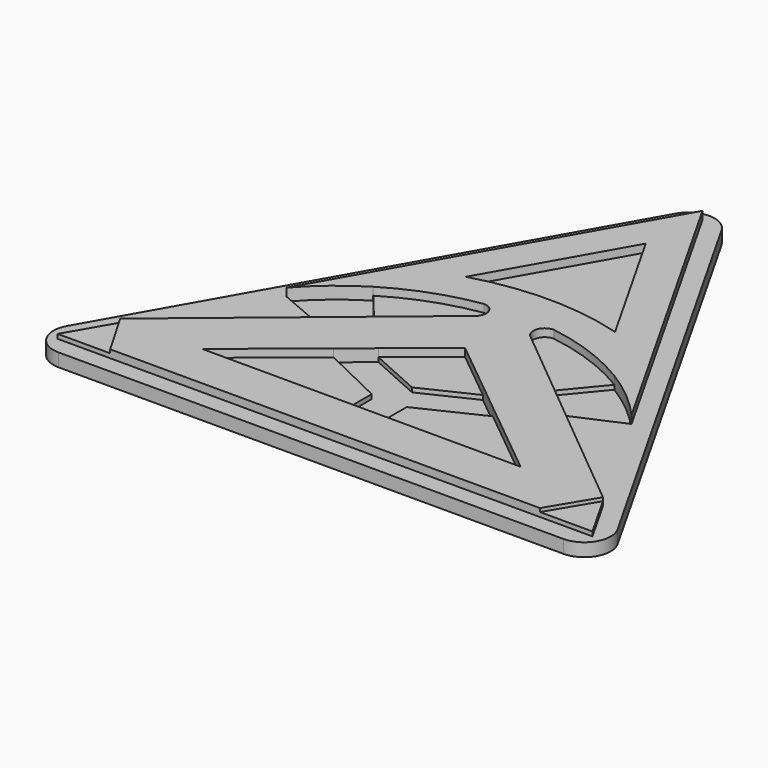
from build123d import *

# Parameters (mm, degrees)
F1_DEPTH = 0.75
F2_DEPTH = 1.2
F3_DEPTH = 0.5
F4_R     = 1.5
F5_DEPTH = 1


with BuildPart() as f1:
    # F0 (on Top) → F1 (new body)
    with BuildSketch(Plane.XY):
        Polygon((17, 0), (0, 30), (-17, 0), align=None)
        Polygon((-9.8602514396, 10.5712104419), (0, 27.9716541589), (9.8602514396, 10.5712104419), (6.91278449, 9.2867956266), (13.8255689799, 3.5735912532), (15.2839373567, 1), (12.2839373567, 1), (-12.2839373567, 1), (-15.2839373567, 1), (-13.7839373567, 3.5980762114), (-6.8919686783, 9.2990381057), align=None, mode=Mode.SUBTRACT)
    extrude(amount=F1_DEPTH)



with BuildPart() as f1b:
    # F0 (on Top) → F1, piece 2 (new body)
    with BuildSketch(Plane.XY):
        with BuildLine():
            Line((4.2646633267, 16.3890860177), (0, 23.9149624766))
            Line((0, 23.9149624766), (-4.2646633267, 16.3890860177))
            ThreePointArc((-4.2646633267, 16.3890860177), (0, 17), (4.2646633267, 16.3890860177))
        make_face()
    extrude(amount=F1_DEPTH)


with BuildPart() as f1c:
    # F0 (on Top) → F1, piece 3 (new body)
    with BuildSketch(Plane.XY):
        with BuildLine():
            ThreePointArc((-2, 14.8474978515), (-4.53528859, 14.1958216086), (-6.8919686783, 13.0563352674))
            Line((-6.8919686783, 13.0563352674), (-5.0466307357, 10.8254816785))
            Line((-5.0466307357, 10.8254816785), (-1.5410891317, 13.7252277505))
            ThreePointArc((-1.5410891317, 13.7252277505), (-1.3920172008, 14.4411475731), (-2, 14.8474978515))
        make_face()
    extrude(amount=F1_DEPTH)


with BuildPart() as f1d:
    # F0 (on Top) → F1, piece 4 (new body)
    with BuildSketch(Plane.XY):
        with BuildLine():
            Line((5.049368775, 10.8268515661), (6.8919686783, 13.0563352674))
            ThreePointArc((6.8919686783, 13.0563352674), (4.53528859, 14.1958216086), (2, 14.8474978515))
            ThreePointArc((2, 14.8474978515), (1.3921371588, 14.4414464477), (1.5416340213, 13.7258867616))
            Line((1.5416340213, 13.7258867616), (5.049368775, 10.8268515661))
        make_face()
    extrude(amount=F1_DEPTH)


with BuildPart() as f1e:
    # F0 (on Top) → F1, piece 5 (new body)
    with BuildSketch(Plane.XY):
        Polygon((0, 11), (-2.997756418, 8.5596127439), (0, 7.2146742605), (2.927840303, 8.6165294417), align=None)
    extrude(amount=F1_DEPTH)


with BuildPart() as f1f:
    # F0 (on Top) → F1, piece 6 (new body)
    with BuildSketch(Plane.XY):
        Polygon((-4.5487910115, 7.2969601038), (-9.097582023, 3.5939202075), (-1, 3.5867390231), (-1, 5.5867390231), align=None)
    extrude(amount=F1_DEPTH)


with BuildPart() as f1g:
    # F0 (on Top) → F1, piece 7 (new body)
    with BuildSketch(Plane.XY):
        Polygon((1, 5.5849653616), (1, 3.5849653616), (9.117425038, 3.5777665798), (4.558712519, 7.2888832899), align=None)
    extrude(amount=F1_DEPTH)


with BuildPart() as f1_1:
    add(f1.part)

    add(f1b.part)  # F2 merges F1b

    add(f1c.part)  # F2 merges F1c

    add(f1d.part)  # F2 merges F1d

    add(f1e.part)  # F2 merges F1e

    add(f1f.part)  # F2 merges F1f

    add(f1g.part)  # F2 merges F1g
    # F0 (on Top) → F2 (join)
    with BuildSketch(Plane.XY):
        with BuildLine():
            Line((9.8602514396, 10.5712104419), (0, 27.9716541589))
            Line((0, 27.9716541589), (-9.8602514396, 10.5712104419))
            ThreePointArc((-9.8602514396, 10.5712104419), (-8.467773088, 11.9232570085), (-6.8919686783, 13.0563352674))
            ThreePointArc((-6.8919686783, 13.0563352674), (-4.53528859, 14.1958216086), (-2, 14.8474978515))
            ThreePointArc((-2, 14.8474978515), (-1.3920172008, 14.4411475731), (-1.5410891317, 13.7252277505))
            Line((-1.5410891317, 13.7252277505), (-5.0466307357, 10.8254816785))
            Line((-5.0466307357, 10.8254816785), (-6.8919686783, 9.2990381057))
            Line((-6.8919686783, 9.2990381057), (-13.7839373567, 3.5980762114))
            Line((-13.7839373567, 3.5980762114), (-12.2839373567, 1))
            Line((-12.2839373567, 1), (12.2839373567, 1))
            Line((12.2839373567, 1), (13.8255689799, 3.5735912532))
            Line((13.8255689799, 3.5735912532), (6.91278449, 9.2867956266))
            Line((6.91278449, 9.2867956266), (5.049368775, 10.8268515661))
            Line((5.049368775, 10.8268515661), (1.5416340213, 13.7258867616))
            ThreePointArc((1.5416340213, 13.7258867616), (1.3921371588, 14.4414464477), (2, 14.8474978515))
            ThreePointArc((2, 14.8474978515), (4.53528859, 14.1958216086), (6.8919686783, 13.0563352674))
            ThreePointArc((6.8919686783, 13.0563352674), (8.467773088, 11.9232570085), (9.8602514396, 10.5712104419))
        make_face()
        Polygon((-1, 3.5867390231), (-9.097582023, 3.5939202075), (-4.5487910115, 7.2969601038), (-2.997756418, 8.5596127439), (0, 11), (2.927840303, 8.6165294417), (4.558712519, 7.2888832899), (9.117425038, 3.5777665798), (1, 3.5849653616), align=None, mode=Mode.SUBTRACT)
        with BuildLine():
            Line((-4.2646633267, 16.3890860177), (0, 23.9149624766))
            Line((0, 23.9149624766), (4.2646633267, 16.3890860177))
            ThreePointArc((4.2646633267, 16.3890860177), (0, 17), (-4.2646633267, 16.3890860177))
        make_face(mode=Mode.SUBTRACT)
    extrude(amount=F2_DEPTH)

    # F0 (on Top) → F3 (join)
    with BuildSketch(Plane.XY):
        with BuildLine():
            ThreePointArc((-6.8919686783, 13.0563352674), (-8.467773088, 11.9232570085), (-9.8602514396, 10.5712104419))
            Line((-9.8602514396, 10.5712104419), (-6.8919686783, 9.2990381057))
            Line((-6.8919686783, 9.2990381057), (-5.0466307357, 10.8254816785))
            Line((-5.0466307357, 10.8254816785), (-6.8919686783, 13.0563352674))
        make_face()
        Polygon((-1, 5.5867390231), (-1, 3.5867390231), (1, 3.5849653616), (1, 5.5849653616), (4.558712519, 7.2888832899), (2.927840303, 8.6165294417), (0, 7.2146742605), (-2.997756418, 8.5596127439), (-4.5487910115, 7.2969601038), align=None)
        with BuildLine():
            Line((6.91278449, 9.2867956266), (9.8602514396, 10.5712104419))
            ThreePointArc((9.8602514396, 10.5712104419), (8.467773088, 11.9232570085), (6.8919686783, 13.0563352674))
            Line((6.8919686783, 13.0563352674), (5.049368775, 10.8268515661))
            Line((5.049368775, 10.8268515661), (6.91278449, 9.2867956266))
        make_face()
    extrude(amount=F3_DEPTH)

    # F4
    f4_edges = [f1_1.edges().sort_by_distance(p)[0] for p in [
        (0, 30, 0.375),
        (-17, 0, 0.375),
        (17, 0, 0.375),
    ]]
    fillet(f4_edges, radius=F4_R)

    # F0 (on Top) → F5 (join)
    with BuildSketch(Plane.XY):
        Polygon((-12.2839373567, 1), (-13.7839373567, 3.5980762114), (-15.2839373567, 1), align=None)
        Polygon((15.2839373567, 1), (13.8255689799, 3.5735912532), (12.2839373567, 1), align=None)
    extrude(amount=F5_DEPTH)


solid = f1_1.part
